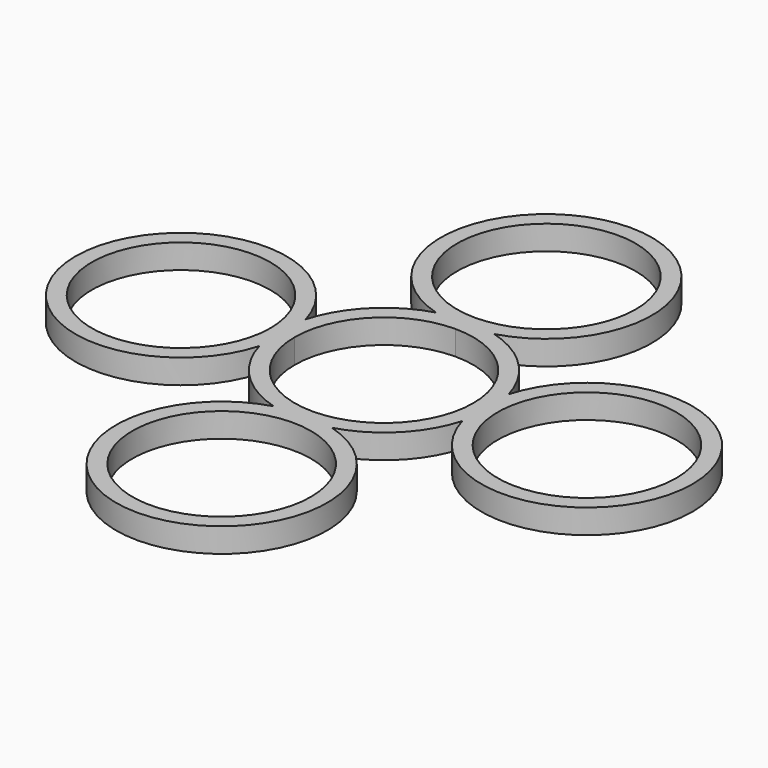
from build123d import *

# Parameters (mm, degrees)
F0_R     = 11
F1_DEPTH = 3


with BuildPart() as f1:
    # F0 (on Top) → F1 (new body)
    with BuildSketch(Plane.XY):
        with BuildLine():
            ThreePointArc((11, 0), (7.778175, 7.778175), (0, 11))
            ThreePointArc((0, 11), (-7.778175, 7.778175), (-11, 0))
            ThreePointArc((-11, 0), (0, -11), (11, 0))
        make_face()
        with BuildLine():
            ThreePointArc((11, 25), (-7.778175, 32.778175), (0, 14))
            ThreePointArc((0, 14), (7.778175, 17.221825), (11, 25))
        make_face()
        with BuildLine():
            ThreePointArc((3.570714, 12.5), (0, 38), (-3.570714, 12.5))
            ThreePointArc((-3.570714, 12.5), (-9.192388, 9.192388), (-12.5, 3.570714))
            ThreePointArc((-12.5, 3.570714), (-38, 0), (-12.5, -3.570714))
            ThreePointArc((-12.5, -3.570714), (-9.192388, -9.192388), (-3.570714, -12.5))
            ThreePointArc((-3.570714, -12.5), (0, -38), (3.570714, -12.5))
            ThreePointArc((3.570714, -12.5), (9.192388, -9.192388), (12.5, -3.570714))
            ThreePointArc((12.5, -3.570714), (38, 0), (12.5, 3.570714))
            ThreePointArc((12.5, 3.570714), (9.192388, 9.192388), (3.570714, 12.5))
        make_face()
        with Locations((0, -25)):
            Circle(F0_R, mode=Mode.SUBTRACT)
        with Locations((-25, 0)):
            Circle(F0_R, mode=Mode.SUBTRACT)
        with BuildLine():
            ThreePointArc((-11, 0), (-7.778175, 7.778175), (0, 11))
            ThreePointArc((0, 11), (7.778175, 7.778175), (11, 0))
            ThreePointArc((11, 0), (0, -11), (-11, 0))
        make_face(mode=Mode.SUBTRACT)
        with Locations((25, 0)):
            Circle(F0_R, mode=Mode.SUBTRACT)
        with BuildLine():
            ThreePointArc((11, 25), (7.778175, 17.221825), (0, 14))
            ThreePointArc((0, 14), (-7.778175, 32.778175), (11, 25))
        make_face(mode=Mode.SUBTRACT)
    extrude(amount=F1_DEPTH)


solid = f1.part
